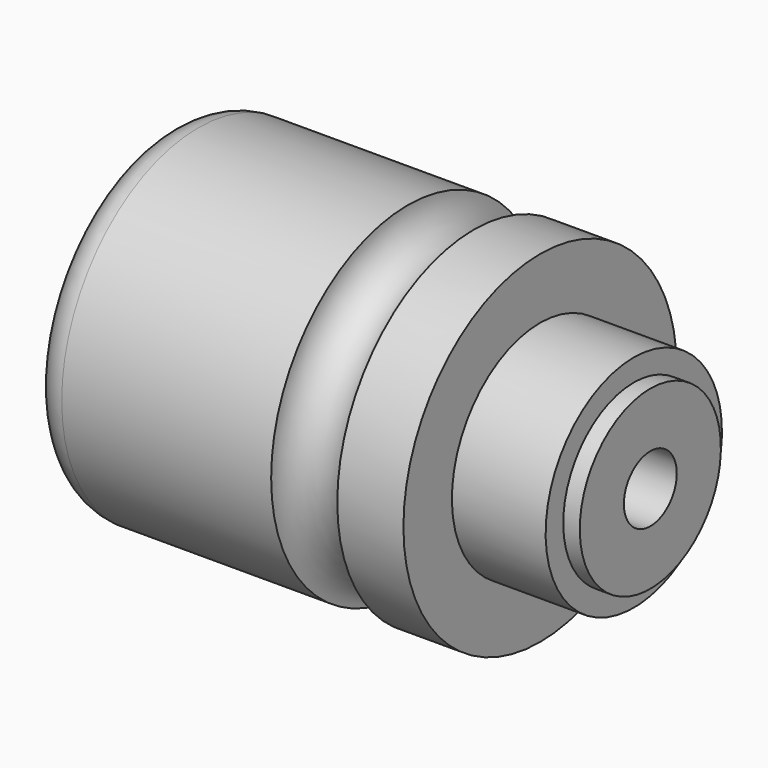
from build123d import *

# Parameters (mm, degrees)
F0_W   = 3
F0_H   = 16
F2_W   = 1.5
F2_H   = 16
F2_W_2 = 3
F2_H_2 = 12.5
F2_W_3 = 58
F2_H_3 = 6


with BuildPart() as f1:
    # F0 (on Front) → F1 (revolve)
    with BuildSketch(Plane.XZ):
        Polygon((56, 31), (56, 0), (68, 0), (68, 20), (68, 31), align=None)
        with Locations((86.5, 8)):
            Rectangle(F0_W, F0_H)
        with BuildLine():
            Line((44, 31), (44, 0))
            Line((44, 0), (56, 0))
            Line((56, 0), (56, 31))
            ThreePointArc((56, 31), (50, 25), (44, 31))
        make_face()
        with BuildLine():
            Line((0, 25), (0, 0))
            Line((0, 0), (44, 0))
            Line((44, 0), (44, 31))
            Line((44, 31), (6, 31))
            ThreePointArc((6, 31), (1.7573593129, 29.2426406871), (0, 25))
        make_face()
        Polygon((68, 20), (68, 0), (85, 0), (85, 16), (85, 20), align=None)
    revolve(axis=Axis((42.5, 0, 0), (-1, 0, 0)))

    # F2 (on Front) → F3 (revolve, cut)
    with BuildSketch(Plane.XZ):
        with Locations((0.75, 8)):
            Rectangle(F2_W, F2_H)
        Polygon((1.5, 16), (1.5, 0), (12, 0), (12, 12.5), (12, 16), align=None)
        with BuildLine():
            Line((0, 16), (1.5, 16))
            Line((1.5, 16), (1.5, 28.9686269666))
            ThreePointArc((1.5, 28.9686269666), (0.3875139198, 27.1213203436), (0, 25))
            Line((0, 25), (0, 16))
        make_face()
        with Locations((13.5, 6.25)):
            Rectangle(F2_W_2, F2_H_2)
        Polygon((15, 12.5), (15, 0), (30, 0), (30, 6), (30, 16), (22, 16), (22, 20.5), (15, 20.5), align=None)
        with Locations((59, 3)):
            Rectangle(F2_W_3, F2_H_3)
    revolve(axis=Axis((44, 0, 0), (-1, 0, 0)), mode=Mode.SUBTRACT)


solid = f1.part
